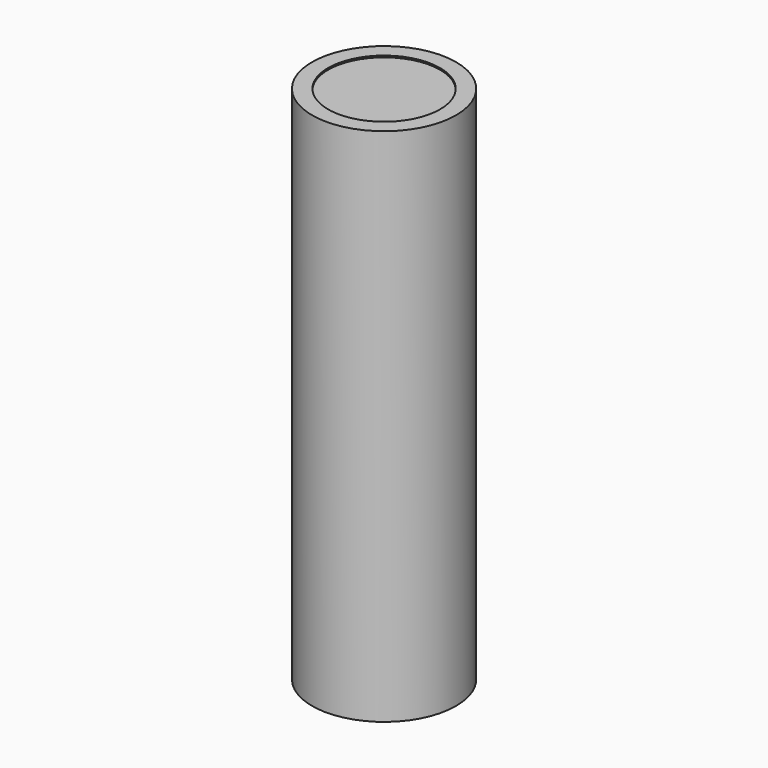
from build123d import *

# Parameters (mm, degrees)
CYLINDER_R      = 9
CYLINDER_DEPTH  = 65
SKETCH_R        = 7
POCKET_DEPTH    = 0.2
SKETCH001_R     = 6
POCKET001_DEPTH = 4
PAD_DEPTH       = 4
FILLET_R        = 1.1


with BuildPart() as part:
    # Cylinder → Cylinder (new body)
    with BuildSketch(Plane.XY):
        Circle(CYLINDER_R)
    extrude(amount=CYLINDER_DEPTH)

    # Sketch (on Face3 of BaseFeature) → Pocket (cut)
    with BuildSketch(Plane.XY.offset(65)):
        Circle(SKETCH_R)
    extrude(amount=-POCKET_DEPTH, mode=Mode.SUBTRACT)

    # Sketch001 (on Face2 of Pocket) → Pocket001 (cut)
    with BuildSketch(Plane(origin=(0, 0, 0), x_dir=(1, 0, 0), z_dir=(0, 0, -1))):
        Circle(SKETCH001_R)
    extrude(amount=-POCKET001_DEPTH, mode=Mode.SUBTRACT)

    # Sketch002 (on Face6 of Pocket001) → Pad (join)
    with BuildSketch(Plane(origin=(0, 0, 4), x_dir=(1, 0, 0), z_dir=(0, 0, -1))):
        with BuildLine():
            ThreePointArc((-5.1875, -1.827524), (-3.889087, -3.889087), (-1.827524, -5.1875))
            ThreePointArc((1.827524, -5.1875), (0, -4), (-1.827524, -5.1875))
            ThreePointArc((1.827524, -5.1875), (3.889087, -3.889087), (5.1875, -1.827524))
            ThreePointArc((5.1875, 1.827524), (4, 0), (5.1875, -1.827524))
            ThreePointArc((5.1875, 1.827524), (3.889087, 3.889087), (1.827524, 5.1875))
            ThreePointArc((-1.827524, 5.1875), (0, 4), (1.827524, 5.1875))
            ThreePointArc((-1.827524, 5.1875), (-3.889087, 3.889087), (-5.1875, 1.827524))
            ThreePointArc((-5.1875, -1.827524), (-4, 0), (-5.1875, 1.827524))
        make_face()
    extrude(amount=PAD_DEPTH)

    # Fillet
    fillet_edges = [part.edges().sort_by_distance(p)[0] for p in [
        (-3.889087, 3.889087, 0),
        (3.889087, 3.889087, 0),
        (3.889087, -3.889087, 0),
        (-3.889087, -3.889087, 0),
    ]]
    fillet(fillet_edges, radius=FILLET_R)


solid = part.part
